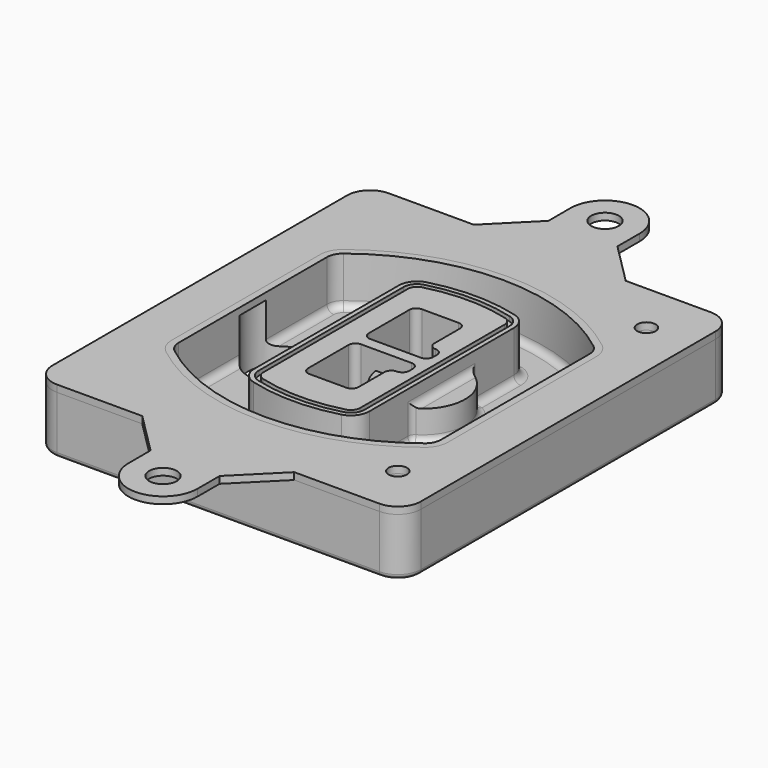
from build123d import *

# Parameters (mm, degrees)
F0_R      = 4
F1_DEPTH  = 25
F2_DEPTH  = 3
F3_DEPTH  = 18
F5_DEPTH  = 21
F6_DEPTH  = 2
F8_DEPTH  = 20
F9_DEPTH  = 16
F10_DEPTH = 25
F7_R      = 6
F7_R_2    = 4
F11_DEPTH = 6
F13_DEPTH = 9
F14_R     = 3
F15_R     = 2
F16_R     = 4
F16_R_2   = 6
F17_DEPTH = 3


with BuildPart() as f1:
    # F0 (on Top) → F1 (new body)
    with BuildSketch(Plane.XY):
        with BuildLine():
            ThreePointArc((-80, -80), (-77.0710678119, -87.0710678119), (-70, -90))
            Line((-70, -90), (70, -90))
            ThreePointArc((70, -90), (77.0710678119, -87.0710678119), (80, -80))
            Line((80, -80), (80, 80))
            ThreePointArc((80, 80), (77.0710678119, 87.0710678119), (70, 90))
            Line((70, 90), (-70, 90))
            ThreePointArc((-70, 90), (-77.0710678119, 87.0710678119), (-80, 80))
            Line((-80, 80), (-80, -80))
        make_face()
        with Locations((-60, -67.5)):
            Circle(F0_R, mode=Mode.SUBTRACT)
        with Locations((60, -67.5)):
            Circle(F0_R, mode=Mode.SUBTRACT)
        with Locations((-60, 67.5)):
            Circle(F0_R, mode=Mode.SUBTRACT)
        with BuildLine():
            ThreePointArc((-64, 40.2934422872), (-62.5820384798, 46.4328484224), (-58.6153846154, 51.3286200352))
            ThreePointArc((-58.6153846154, 51.3286200352), (0, 71.5), (58.6153846154, 51.3286200352))
            ThreePointArc((58.6153846154, 51.3286200352), (62.5820384798, 46.4328484224), (64, 40.2934422872))
            Line((64, 40.2934422872), (64, -40.2934422872))
            ThreePointArc((64, -40.2934422872), (62.5820384798, -46.4328484224), (58.6153846154, -51.3286200352))
            ThreePointArc((58.6153846154, -51.3286200352), (0, -71.5), (-58.6153846154, -51.3286200352))
            ThreePointArc((-58.6153846154, -51.3286200352), (-62.5820384798, -46.4328484224), (-64, -40.2934422872))
            Line((-64, -40.2934422872), (-64, 40.2934422872))
        make_face(mode=Mode.SUBTRACT)
        with Locations((60, 67.5)):
            Circle(F0_R, mode=Mode.SUBTRACT)
        with BuildLine():
            ThreePointArc((58.6153846154, 51.3286200352), (0, 71.5), (-58.6153846154, 51.3286200352))
            ThreePointArc((-58.6153846154, 51.3286200352), (-62.5820384798, 46.4328484224), (-64, 40.2934422872))
            Line((-64, 40.2934422872), (-64, -40.2934422872))
            ThreePointArc((-64, -40.2934422872), (-62.5820384798, -46.4328484224), (-58.6153846154, -51.3286200352))
            ThreePointArc((-58.6153846154, -51.3286200352), (0, -71.5), (58.6153846154, -51.3286200352))
            ThreePointArc((58.6153846154, -51.3286200352), (62.5820384798, -46.4328484224), (64, -40.2934422872))
            Line((64, -40.2934422872), (64, 40.2934422872))
            ThreePointArc((64, 40.2934422872), (62.5820384798, 46.4328484224), (58.6153846154, 51.3286200352))
        make_face()
        with BuildLine():
            Line((-60, -40.2934422872), (-60, 40.2934422872))
            ThreePointArc((-60, 40.2934422872), (-58.9871703427, 44.6787323838), (-56.1538461538, 48.1757121072))
            ThreePointArc((-56.1538461538, 48.1757121072), (0, 67.5), (56.1538461538, 48.1757121072))
            ThreePointArc((56.1538461538, 48.1757121072), (58.9871703427, 44.6787323838), (60, 40.2934422872))
            Line((60, 40.2934422872), (60, -40.2934422872))
            ThreePointArc((60, -40.2934422872), (58.9871703427, -44.6787323838), (56.1538461538, -48.1757121072))
            ThreePointArc((56.1538461538, -48.1757121072), (0, -67.5), (-56.1538461538, -48.1757121072))
            ThreePointArc((-56.1538461538, -48.1757121072), (-58.9871703427, -44.6787323838), (-60, -40.2934422872))
        make_face(mode=Mode.SUBTRACT)
        with BuildLine():
            ThreePointArc((-56.1538461538, 48.1757121072), (-58.9871703427, 44.6787323838), (-60, 40.2934422872))
            Line((-60, 40.2934422872), (-60, -40.2934422872))
            ThreePointArc((-60, -40.2934422872), (-58.9871703427, -44.6787323838), (-56.1538461538, -48.1757121072))
            ThreePointArc((-56.1538461538, -48.1757121072), (0, -67.5), (56.1538461538, -48.1757121072))
            ThreePointArc((56.1538461538, -48.1757121072), (58.9871703427, -44.6787323838), (60, -40.2934422872))
            Line((60, -40.2934422872), (60, 40.2934422872))
            ThreePointArc((60, 40.2934422872), (58.9871703427, 44.6787323838), (56.1538461538, 48.1757121072))
            ThreePointArc((56.1538461538, 48.1757121072), (0, 67.5), (-56.1538461538, 48.1757121072))
        make_face()
        with BuildLine():
            ThreePointArc((54.3076923077, 45.8110311612), (56.2910192399, 43.3631453548), (57, 40.2934422872))
            Line((57, 40.2934422872), (57, -40.2934422872))
            ThreePointArc((57, -40.2934422872), (56.2910192399, -43.3631453548), (54.3076923077, -45.8110311612))
            ThreePointArc((54.3076923077, -45.8110311612), (0, -64.5), (-54.3076923077, -45.8110311612))
            ThreePointArc((-54.3076923077, -45.8110311612), (-56.2910192399, -43.3631453548), (-57, -40.2934422872))
            Line((-57, -40.2934422872), (-57, 40.2934422872))
            ThreePointArc((-57, 40.2934422872), (-56.2910192399, 43.3631453548), (-54.3076923077, 45.8110311612))
            ThreePointArc((-54.3076923077, 45.8110311612), (0, 64.5), (54.3076923077, 45.8110311612))
        make_face(mode=Mode.SUBTRACT)
        with BuildLine():
            Line((57, -40.2934422872), (57, 40.2934422872))
            ThreePointArc((57, 40.2934422872), (56.2910192399, 43.3631453548), (54.3076923077, 45.8110311612))
            ThreePointArc((54.3076923077, 45.8110311612), (0, 64.5), (-54.3076923077, 45.8110311612))
            ThreePointArc((-54.3076923077, 45.8110311612), (-56.2910192399, 43.3631453548), (-57, 40.2934422872))
            Line((-57, 40.2934422872), (-57, -40.2934422872))
            ThreePointArc((-57, -40.2934422872), (-56.2910192399, -43.3631453548), (-54.3076923077, -45.8110311612))
            ThreePointArc((-54.3076923077, -45.8110311612), (0, -64.5), (54.3076923077, -45.8110311612))
            ThreePointArc((54.3076923077, -45.8110311612), (56.2910192399, -43.3631453548), (57, -40.2934422872))
        make_face()
    extrude(amount=-F1_DEPTH)

    # F0 (on Top) → F2 (join)
    with BuildSketch(Plane.XY):
        with BuildLine():
            ThreePointArc((-56.1538461538, 48.1757121072), (-58.9871703427, 44.6787323838), (-60, 40.2934422872))
            Line((-60, 40.2934422872), (-60, -40.2934422872))
            ThreePointArc((-60, -40.2934422872), (-58.9871703427, -44.6787323838), (-56.1538461538, -48.1757121072))
            ThreePointArc((-56.1538461538, -48.1757121072), (0, -67.5), (56.1538461538, -48.1757121072))
            ThreePointArc((56.1538461538, -48.1757121072), (58.9871703427, -44.6787323838), (60, -40.2934422872))
            Line((60, -40.2934422872), (60, 40.2934422872))
            ThreePointArc((60, 40.2934422872), (58.9871703427, 44.6787323838), (56.1538461538, 48.1757121072))
            ThreePointArc((56.1538461538, 48.1757121072), (0, 67.5), (-56.1538461538, 48.1757121072))
        make_face()
        with BuildLine():
            ThreePointArc((54.3076923077, 45.8110311612), (56.2910192399, 43.3631453548), (57, 40.2934422872))
            Line((57, 40.2934422872), (57, -40.2934422872))
            ThreePointArc((57, -40.2934422872), (56.2910192399, -43.3631453548), (54.3076923077, -45.8110311612))
            ThreePointArc((54.3076923077, -45.8110311612), (0, -64.5), (-54.3076923077, -45.8110311612))
            ThreePointArc((-54.3076923077, -45.8110311612), (-56.2910192399, -43.3631453548), (-57, -40.2934422872))
            Line((-57, -40.2934422872), (-57, 40.2934422872))
            ThreePointArc((-57, 40.2934422872), (-56.2910192399, 43.3631453548), (-54.3076923077, 45.8110311612))
            ThreePointArc((-54.3076923077, 45.8110311612), (0, 64.5), (54.3076923077, 45.8110311612))
        make_face(mode=Mode.SUBTRACT)
    extrude(amount=F2_DEPTH)

    # F0 (on Top) → F3 (cut)
    with BuildSketch(Plane.XY):
        with BuildLine():
            Line((57, -40.2934422872), (57, 40.2934422872))
            ThreePointArc((57, 40.2934422872), (56.2910192399, 43.3631453548), (54.3076923077, 45.8110311612))
            ThreePointArc((54.3076923077, 45.8110311612), (0, 64.5), (-54.3076923077, 45.8110311612))
            ThreePointArc((-54.3076923077, 45.8110311612), (-56.2910192399, 43.3631453548), (-57, 40.2934422872))
            Line((-57, 40.2934422872), (-57, -40.2934422872))
            ThreePointArc((-57, -40.2934422872), (-56.2910192399, -43.3631453548), (-54.3076923077, -45.8110311612))
            ThreePointArc((-54.3076923077, -45.8110311612), (0, -64.5), (54.3076923077, -45.8110311612))
            ThreePointArc((54.3076923077, -45.8110311612), (56.2910192399, -43.3631453548), (57, -40.2934422872))
        make_face()
    extrude(amount=-F3_DEPTH, mode=Mode.SUBTRACT)

    # F4 (on face) → F5 (join, through all)
    with BuildSketch(Plane.XY.offset(3)):
        with BuildLine():
            ThreePointArc((-25, -39.2465276821), (-23.3511545998, -44.1109737193), (-19.0842911877, -46.9702398883))
            ThreePointArc((-19.0842911877, -46.9702398883), (0, -49.5), (19.0842911877, -46.9702398883))
            ThreePointArc((19.0842911877, -46.9702398883), (23.3511545998, -44.1109737193), (25, -39.2465276821))
            Line((25, -39.2465276821), (25, 39.2465276821))
            ThreePointArc((25, 39.2465276821), (23.3511545998, 44.1109737193), (19.0842911877, 46.9702398883))
            ThreePointArc((19.0842911877, 46.9702398883), (0, 49.5), (-19.0842911877, 46.9702398883))
            ThreePointArc((-19.0842911877, 46.9702398883), (-23.3511545998, 44.1109737193), (-25, 39.2465276821))
            Line((-25, 39.2465276821), (-25, -39.2465276821))
        make_face()
        with BuildLine():
            ThreePointArc((18.5632183908, 45.0393118368), (21.7633659499, 42.89486221), (23, 39.2465276821))
            Line((23, 39.2465276821), (23, -39.2465276821))
            ThreePointArc((23, -39.2465276821), (21.7633659499, -42.89486221), (18.5632183908, -45.0393118368))
            ThreePointArc((18.5632183908, -45.0393118368), (0, -47.5), (-18.5632183908, -45.0393118368))
            ThreePointArc((-18.5632183908, -45.0393118368), (-21.7633659499, -42.89486221), (-23, -39.2465276821))
            Line((-23, -39.2465276821), (-23, 39.2465276821))
            ThreePointArc((-23, 39.2465276821), (-21.7633659499, 42.89486221), (-18.5632183908, 45.0393118368))
            ThreePointArc((-18.5632183908, 45.0393118368), (0, 47.5), (18.5632183908, 45.0393118368))
        make_face(mode=Mode.SUBTRACT)
        with BuildLine():
            Line((23, -39.2465276821), (23, 39.2465276821))
            ThreePointArc((23, 39.2465276821), (21.7633659499, 42.89486221), (18.5632183908, 45.0393118368))
            ThreePointArc((18.5632183908, 45.0393118368), (0, 47.5), (-18.5632183908, 45.0393118368))
            ThreePointArc((-18.5632183908, 45.0393118368), (-21.7633659499, 42.89486221), (-23, 39.2465276821))
            Line((-23, 39.2465276821), (-23, -39.2465276821))
            ThreePointArc((-23, -39.2465276821), (-21.7633659499, -42.89486221), (-18.5632183908, -45.0393118368))
            ThreePointArc((-18.5632183908, -45.0393118368), (0, -47.5), (18.5632183908, -45.0393118368))
            ThreePointArc((18.5632183908, -45.0393118368), (21.7633659499, -42.89486221), (23, -39.2465276821))
        make_face()
        with BuildLine():
            ThreePointArc((18.0421455939, 43.1083837852), (20.1755772999, 41.6787507007), (21, 39.2465276821))
            Line((21, 39.2465276821), (21, -39.2465276821))
            ThreePointArc((21, -39.2465276821), (20.1755772999, -41.6787507007), (18.0421455939, -43.1083837852))
            ThreePointArc((18.0421455939, -43.1083837852), (0, -45.5), (-18.0421455939, -43.1083837852))
            ThreePointArc((-18.0421455939, -43.1083837852), (-20.1755772999, -41.6787507007), (-21, -39.2465276821))
            Line((-21, -39.2465276821), (-21, 39.2465276821))
            ThreePointArc((-21, 39.2465276821), (-20.1755772999, 41.6787507007), (-18.0421455939, 43.1083837852))
            ThreePointArc((-18.0421455939, 43.1083837852), (0, 45.5), (18.0421455939, 43.1083837852))
        make_face(mode=Mode.SUBTRACT)
        with BuildLine():
            Line((21, -39.2465276821), (21, 39.2465276821))
            ThreePointArc((21, 39.2465276821), (20.1755772999, 41.6787507007), (18.0421455939, 43.1083837852))
            ThreePointArc((18.0421455939, 43.1083837852), (0, 45.5), (-18.0421455939, 43.1083837852))
            ThreePointArc((-18.0421455939, 43.1083837852), (-20.1755772999, 41.6787507007), (-21, 39.2465276821))
            Line((-21, 39.2465276821), (-21, -39.2465276821))
            ThreePointArc((-21, -39.2465276821), (-20.1755772999, -41.6787507007), (-18.0421455939, -43.1083837852))
            ThreePointArc((-18.0421455939, -43.1083837852), (0, -45.5), (18.0421455939, -43.1083837852))
            ThreePointArc((18.0421455939, -43.1083837852), (20.1755772999, -41.6787507007), (21, -39.2465276821))
        make_face()
        with BuildLine():
            Line((-8, -2.5), (14, -2.5))
            ThreePointArc((14, -2.5), (16.1213203436, -3.3786796564), (17, -5.5))
            Line((17, -5.5), (17, -7.5))
            ThreePointArc((17, -7.5), (16.1213203436, -9.6213203436), (14, -10.5))
            ThreePointArc((14, -10.5), (11.8786796564, -11.3786796564), (11, -13.5))
            Line((11, -13.5), (11, -27.5))
            ThreePointArc((11, -27.5), (10.1213203436, -29.6213203436), (8, -30.5))
            Line((8, -30.5), (-8, -30.5))
            ThreePointArc((-8, -30.5), (-10.1213203436, -29.6213203436), (-11, -27.5))
            Line((-11, -27.5), (-11, -5.5))
            ThreePointArc((-11, -5.5), (-10.1213203436, -3.3786796564), (-8, -2.5))
        make_face(mode=Mode.SUBTRACT)
        with BuildLine():
            ThreePointArc((-8, 2.5), (-10.1213203436, 3.3786796564), (-11, 5.5))
            Line((-11, 5.5), (-11, 27.5))
            ThreePointArc((-11, 27.5), (-10.1213203436, 29.6213203436), (-8, 30.5))
            Line((-8, 30.5), (8, 30.5))
            ThreePointArc((8, 30.5), (10.1213203436, 29.6213203436), (11, 27.5))
            Line((11, 27.5), (11, 13.5))
            ThreePointArc((11, 13.5), (11.8786796564, 11.3786796564), (14, 10.5))
            ThreePointArc((14, 10.5), (16.1213203436, 9.6213203436), (17, 7.5))
            Line((17, 7.5), (17, 5.5))
            ThreePointArc((17, 5.5), (16.1213203436, 3.3786796564), (14, 2.5))
            Line((14, 2.5), (-8, 2.5))
        make_face(mode=Mode.SUBTRACT)
    extrude(amount=-F5_DEPTH)

    # F4 (on face) → F6 (cut)
    with BuildSketch(Plane.XY.offset(3)):
        with BuildLine():
            Line((23, -39.2465276821), (23, 39.2465276821))
            ThreePointArc((23, 39.2465276821), (21.7633659499, 42.89486221), (18.5632183908, 45.0393118368))
            ThreePointArc((18.5632183908, 45.0393118368), (0, 47.5), (-18.5632183908, 45.0393118368))
            ThreePointArc((-18.5632183908, 45.0393118368), (-21.7633659499, 42.89486221), (-23, 39.2465276821))
            Line((-23, 39.2465276821), (-23, -39.2465276821))
            ThreePointArc((-23, -39.2465276821), (-21.7633659499, -42.89486221), (-18.5632183908, -45.0393118368))
            ThreePointArc((-18.5632183908, -45.0393118368), (0, -47.5), (18.5632183908, -45.0393118368))
            ThreePointArc((18.5632183908, -45.0393118368), (21.7633659499, -42.89486221), (23, -39.2465276821))
        make_face()
        with BuildLine():
            ThreePointArc((18.0421455939, 43.1083837852), (20.1755772999, 41.6787507007), (21, 39.2465276821))
            Line((21, 39.2465276821), (21, -39.2465276821))
            ThreePointArc((21, -39.2465276821), (20.1755772999, -41.6787507007), (18.0421455939, -43.1083837852))
            ThreePointArc((18.0421455939, -43.1083837852), (0, -45.5), (-18.0421455939, -43.1083837852))
            ThreePointArc((-18.0421455939, -43.1083837852), (-20.1755772999, -41.6787507007), (-21, -39.2465276821))
            Line((-21, -39.2465276821), (-21, 39.2465276821))
            ThreePointArc((-21, 39.2465276821), (-20.1755772999, 41.6787507007), (-18.0421455939, 43.1083837852))
            ThreePointArc((-18.0421455939, 43.1083837852), (0, 45.5), (18.0421455939, 43.1083837852))
        make_face(mode=Mode.SUBTRACT)
    extrude(amount=-F6_DEPTH, mode=Mode.SUBTRACT)

    # F7 (on face) → F8 (join)
    with BuildSketch(Plane(origin=(0, 0, -25), x_dir=(1, 0, 0), z_dir=(0, 0, -1))):
        with BuildLine():
            ThreePointArc((3.28842436, 0), (16.7567035675, 13.4682792075), (30.224982775, 0))
            Line((30.224982775, 0), (35.224982775, 0))
            ThreePointArc((35.224982775, 0), (16.7567035675, 18.4682792075), (-1.71157564, 0))
            Line((-1.71157564, 0), (3.28842436, 0))
        make_face()
        with BuildLine():
            Line((3.28842436, 0), (30.224982775, 0))
            ThreePointArc((30.224982775, 0), (16.7567035675, 13.4682792075), (3.28842436, 0))
        make_face()
        with BuildLine():
            ThreePointArc((3.28842436, 0), (16.7567035675, -13.4682792075), (30.224982775, 0))
            Line((30.224982775, 0), (3.28842436, 0))
        make_face()
        with BuildLine():
            Line((35.224982775, 0), (30.224982775, 0))
            ThreePointArc((30.224982775, 0), (16.7567035675, -13.4682792075), (3.28842436, 0))
            Line((3.28842436, 0), (-1.71157564, 0))
            ThreePointArc((-1.71157564, 0), (16.7567035675, -18.4682792075), (35.224982775, 0))
        make_face()
    extrude(amount=-F8_DEPTH)

    # F7 (on face) → F9 (cut)
    with BuildSketch(Plane(origin=(0, 0, -25), x_dir=(1, 0, 0), z_dir=(0, 0, -1))):
        with BuildLine():
            Line((3.28842436, 0), (30.224982775, 0))
            ThreePointArc((30.224982775, 0), (16.7567035675, 13.4682792075), (3.28842436, 0))
        make_face()
        with BuildLine():
            ThreePointArc((3.28842436, 0), (16.7567035675, -13.4682792075), (30.224982775, 0))
            Line((30.224982775, 0), (3.28842436, 0))
        make_face()
    extrude(amount=-F9_DEPTH, mode=Mode.SUBTRACT)

    # F7 (on face) → F10 (cut)
    with BuildSketch(Plane(origin=(0, 0, -25), x_dir=(1, 0, 0), z_dir=(0, 0, -1))):
        with BuildLine():
            Line((-59.0318229325, 0), (-32.0952645175, 0))
            ThreePointArc((-32.0952645175, 0), (-45.563543725, 13.4682792075), (-59.0318229325, 0))
        make_face()
        with BuildLine():
            ThreePointArc((-59.0318229325, 0), (-45.563543725, -13.4682792075), (-32.0952645175, 0))
            Line((-32.0952645175, 0), (-59.0318229325, 0))
        make_face()
    extrude(amount=-F10_DEPTH, mode=Mode.SUBTRACT)

    # F7 (on face) → F11 (cut)
    with BuildSketch(Plane(origin=(0, 0, -25), x_dir=(1, 0, 0), z_dir=(0, 0, -1))):
        with Locations((60, -67.5)):
            Circle(F7_R)
        with Locations((60, -67.5)):
            Circle(F7_R_2, mode=Mode.SUBTRACT)
        with Locations((60, -67.5)):
            Circle(F7_R)
        with Locations((60, -67.5)):
            Circle(F7_R_2, mode=Mode.SUBTRACT)
        with Locations((-60, -67.5)):
            Circle(F7_R)
        with Locations((-60, -67.5)):
            Circle(F7_R_2, mode=Mode.SUBTRACT)
        with Locations((-60, -67.5)):
            Circle(F7_R)
        with Locations((-60, -67.5)):
            Circle(F7_R_2, mode=Mode.SUBTRACT)
        with Locations((-60, 67.5)):
            Circle(F7_R)
        with Locations((-60, 67.5)):
            Circle(F7_R_2, mode=Mode.SUBTRACT)
        with Locations((-60, 67.5)):
            Circle(F7_R)
        with Locations((-60, 67.5)):
            Circle(F7_R_2, mode=Mode.SUBTRACT)
        with Locations((60, 67.5)):
            Circle(F7_R)
        with Locations((60, 67.5)):
            Circle(F7_R_2, mode=Mode.SUBTRACT)
        with Locations((60, 67.5)):
            Circle(F7_R)
        with Locations((60, 67.5)):
            Circle(F7_R_2, mode=Mode.SUBTRACT)
    extrude(amount=-F11_DEPTH, mode=Mode.SUBTRACT)

    # F12 (on face) → F13 (cut, through all)
    with BuildSketch(Plane(origin=(0, 0, -9), x_dir=(1, 0, 0), z_dir=(0, 0, -1))):
        with BuildLine():
            Line((11, 13.5), (11, 17.5481537753))
            ThreePointArc((11, 17.5481537753), (2.5696536419, 11.8239143813), (-1.5415842455, 2.5))
            Line((-1.5415842455, 2.5), (3.5224848595, 2.5))
            ThreePointArc((3.5224848595, 2.5), (6.1857188154, 8.3455872281), (11.2536447004, 12.2927168648))
            ThreePointArc((11.2536447004, 12.2927168648), (11.0640958889, 12.8831798879), (11, 13.5))
        make_face()
        with BuildLine():
            ThreePointArc((11.2536447004, -12.2927168648), (6.1857188154, -8.3455872281), (3.5224848595, -2.5))
            Line((3.5224848595, -2.5), (-1.5415842455, -2.5))
            ThreePointArc((-1.5415842455, -2.5), (2.5696536419, -11.8239143813), (11, -17.5481537753))
            Line((11, -17.5481537753), (11, -13.5))
            ThreePointArc((11, -13.5), (11.0640958889, -12.8831798879), (11.2536447004, -12.2927168648))
        make_face()
        with BuildLine():
            ThreePointArc((11.2536447004, 12.2927168648), (6.1857188154, 8.3455872281), (3.5224848595, 2.5))
            Line((3.5224848595, 2.5), (14, 2.5))
            ThreePointArc((14, 2.5), (16.1213203436, 3.3786796564), (17, 5.5))
            Line((17, 5.5), (17, 7.5))
            ThreePointArc((17, 7.5), (16.1213203436, 9.6213203436), (14, 10.5))
            ThreePointArc((14, 10.5), (12.3601599782, 10.9878446101), (11.2536447004, 12.2927168648))
        make_face()
        with BuildLine():
            Line((14, -2.5), (3.5224848595, -2.5))
            ThreePointArc((3.5224848595, -2.5), (6.1857188154, -8.3455872281), (11.2536447004, -12.2927168648))
            ThreePointArc((11.2536447004, -12.2927168648), (12.3601599782, -10.9878446101), (14, -10.5))
            ThreePointArc((14, -10.5), (16.1213203436, -9.6213203436), (17, -7.5))
            Line((17, -7.5), (17, -5.5))
            ThreePointArc((17, -5.5), (16.1213203436, -3.3786796564), (14, -2.5))
        make_face()
    extrude(amount=F13_DEPTH, mode=Mode.SUBTRACT)

    # F14
    f14_edges = [f1.edges().sort_by_distance(p)[0] for p in [
        (-57, -23.703476, -18),
        (-57, 23.703476, -18),
        (25, 0, -5),
        (25, 16.526506, -11.5),
        (25, -16.526506, -11.5),
        (25, -27.886517, -18),
        (35.224983, 0, -18),
    ]]
    fillet(f14_edges, radius=F14_R)

    # F15
    f15_edges = [f1.edges().sort_by_distance(p)[0] for p in [
        (0, -90, -25),
    ]]
    fillet(f15_edges, radius=F15_R)


with BuildPart() as f17:
    # F16 (on face) → F17 (new body, through all)
    with BuildSketch(Plane.XY):
        with BuildLine():
            Line((-80, 80), (-80, -80))
            ThreePointArc((-80, -80), (-77.0710678119, -87.0710678119), (-70, -90))
            Line((-70, -90), (-33, -90))
            Line((-33, -90), (33, -90))
            Line((33, -90), (70, -90))
            ThreePointArc((70, -90), (77.0710678119, -87.0710678119), (80, -80))
            Line((80, -80), (80, 80))
            ThreePointArc((80, 80), (77.0710678119, 87.0710678119), (70, 90))
            Line((70, 90), (33, 90))
            Line((33, 90), (-33, 90))
            Line((-33, 90), (-70, 90))
            ThreePointArc((-70, 90), (-77.0710678119, 87.0710678119), (-80, 80))
        make_face()
        with Locations((60, -67.5)):
            Circle(F16_R, mode=Mode.SUBTRACT)
        with BuildLine():
            Line((-60, -40.2934422872), (-60, 40.2934422872))
            ThreePointArc((-60, 40.2934422872), (-58.9871703427, 44.6787323838), (-56.1538461538, 48.1757121072))
            ThreePointArc((-56.1538461538, 48.1757121072), (0, 67.5), (56.1538461538, 48.1757121072))
            ThreePointArc((56.1538461538, 48.1757121072), (58.9871703427, 44.6787323838), (60, 40.2934422872))
            Line((60, 40.2934422872), (60, -40.2934422872))
            ThreePointArc((60, -40.2934422872), (58.9871703427, -44.6787323838), (56.1538461538, -48.1757121072))
            ThreePointArc((56.1538461538, -48.1757121072), (0, -67.5), (-56.1538461538, -48.1757121072))
            ThreePointArc((-56.1538461538, -48.1757121072), (-58.9871703427, -44.6787323838), (-60, -40.2934422872))
        make_face(mode=Mode.SUBTRACT)
        with Locations((60, 67.5)):
            Circle(F16_R, mode=Mode.SUBTRACT)
        with BuildLine():
            Line((33, -90), (-33, -90))
            Line((-33, -90), (-15, -108))
            Line((-15, -108), (-15, -120))
            ThreePointArc((-15, -120), (0, -135), (15, -120))
            Line((15, -120), (15, -108))
            Line((15, -108), (33, -90))
        make_face()
        with Locations((0, -120)):
            Circle(F16_R_2, mode=Mode.SUBTRACT)
        with BuildLine():
            Line((-15, 108), (-33, 90))
            Line((-33, 90), (33, 90))
            Line((33, 90), (15, 108))
            Line((15, 108), (15, 120))
            ThreePointArc((15, 120), (0, 135), (-15, 120))
            Line((-15, 120), (-15, 108))
        make_face()
        with Locations((0, 120)):
            Circle(F16_R_2, mode=Mode.SUBTRACT)
    extrude(amount=F17_DEPTH)


solid = Compound([f1.part, f17.part])
